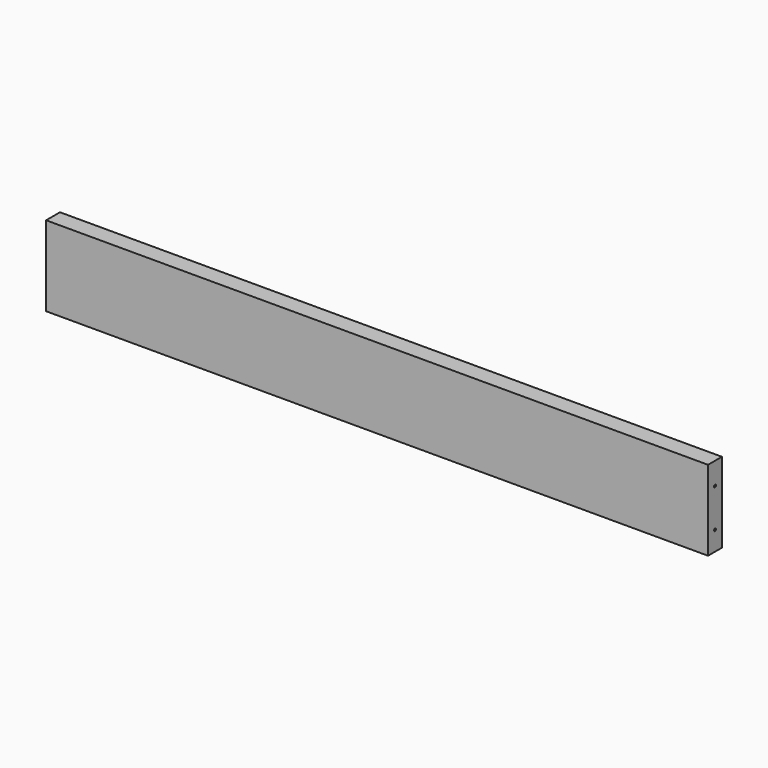
from build123d import *

# Parameters (mm, degrees)
F0_W     = 686
F0_H     = 83
F1_DEPTH = 18
F3_D     = 2.5
F3_DEPTH = 13.5
F3_TIP   = 0.7510757738
F5_D     = 2.5
F5_DEPTH = 14
F5_TIP   = 0.7510757738


with BuildPart() as f1:
    # F0 (on Front) → F1 (new body)
    with BuildSketch(Plane.XZ):
        with Locations((343, 41.5)):
            Rectangle(F0_W, F0_H)
    extrude(amount=F1_DEPTH)

    # F3
    with Locations(Plane(origin=(0, 0, 0), x_dir=(0, -1, 0), z_dir=(-1, 0, 0))):
        with Locations((9, 20), (9, 60)):
            Hole(F3_D / 2, depth=F3_DEPTH)
            with Locations((0, 0, -(F3_DEPTH + F3_TIP / 2))):  # 118° drill point
                Cone(0, F3_D / 2, F3_TIP, mode=Mode.SUBTRACT)

    # F5
    with Locations(Plane.YZ.offset(686)):
        with Locations((-9, 20), (-9, 60)):
            Hole(F5_D / 2, depth=F5_DEPTH)
            with Locations((0, 0, -(F5_DEPTH + F5_TIP / 2))):  # 118° drill point
                Cone(0, F5_D / 2, F5_TIP, mode=Mode.SUBTRACT)


solid = f1.part
